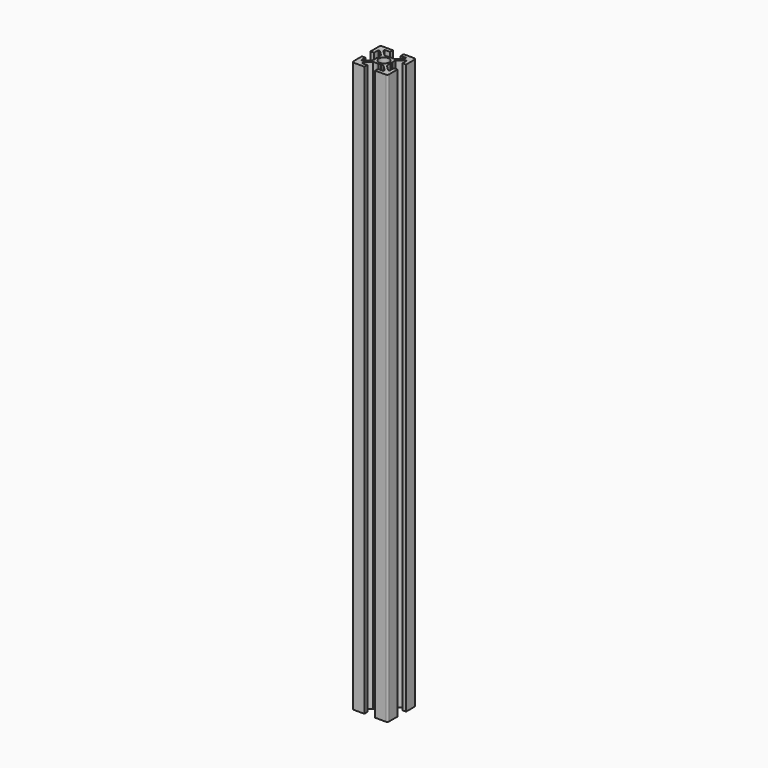
from build123d import *

# Parameters (mm, degrees)
SKETCH001_R = 2.9
PAD_DEPTH   = 160


with BuildPart() as part:
    # Sketch001 → Pad (new body, symmetric)
    with BuildSketch(Plane.XY):
        with BuildLine():
            Line((-8, -3), (-10, -3))
            Line((-10, -3), (-10, -9))
            ThreePointArc((-10, -9), (-9.707107, -9.707107), (-9, -10))
            Line((-9, -10), (-3, -10))
            Line((-3, -10), (-3, -8))
            Line((-3, -8), (-6, -8))
            Line((-6, -8), (-6, -7.06066))
            Line((-6, -7.06066), (-2.93934, -4))
            Line((-2.93934, -4), (-0.65359, -4))
            ThreePointArc((-0.65359, -4), (-0.52418, -3.982963), (-0.40359, -3.933013))
            Line((-0.40359, -3.933013), (0, -3.7))
            Line((0, -3.7), (0.40359, -3.933013))
            ThreePointArc((0.40359, -3.933013), (0.65359, -4), (0.90359, -3.933013))
            Line((0.90359, -3.933013), (1.218886, -3.750977))
            Line((1.218886, -3.750977), (2.5, -4))
            Line((2.5, -4), (2.93934, -4))
            Line((2.93934, -4), (6, -7.06066))
            Line((6, -7.06066), (6, -8))
            Line((6, -8), (3, -8))
            Line((3, -8), (3, -10))
            Line((3, -10), (9, -10))
            ThreePointArc((9, -10), (9.707107, -9.707107), (10, -9))
            Line((10, -9), (10, -3))
            Line((10, -3), (8, -3))
            Line((8, -3), (8, -6))
            Line((8, -6), (7.06066, -6))
            Line((7.06066, -6), (4, -2.93934))
            Line((4, -2.93934), (4, -0.65359))
            ThreePointArc((4, -0.65359), (3.982963, -0.52418), (3.933013, -0.40359))
            Line((3.933013, -0.40359), (3.7, 0))
            Line((3.7, 0), (3.933013, 0.40359))
            ThreePointArc((3.933013, 0.40359), (4, 0.65359), (3.933013, 0.90359))
            Line((3.933013, 0.90359), (3.750977, 1.218886))
            Line((3.750977, 1.218886), (4, 2.5))
            Line((4, 2.5), (4, 2.93934))
            Line((4, 2.93934), (7.06066, 6))
            Line((7.06066, 6), (8, 6))
            Line((8, 6), (8, 3))
            Line((8, 3), (10, 3))
            Line((10, 3), (10, 9))
            ThreePointArc((10, 9), (9.707107, 9.707107), (9, 10))
            Line((9, 10), (3, 10))
            Line((3, 10), (3, 8))
            Line((3, 8), (6, 8))
            Line((6, 8), (6, 7.06066))
            Line((6, 7.06066), (2.93934, 4))
            Line((2.93934, 4), (0.65359, 4))
            ThreePointArc((0.65359, 4), (0.52418, 3.982963), (0.40359, 3.933013))
            Line((0.40359, 3.933013), (0, 3.7))
            Line((0, 3.7), (-0.40359, 3.933013))
            ThreePointArc((-0.40359, 3.933013), (-0.65359, 4), (-0.90359, 3.933013))
            Line((-0.90359, 3.933013), (-1.218886, 3.750977))
            Line((-1.218886, 3.750977), (-2.5, 4))
            Line((-2.5, 4), (-2.93934, 4))
            Line((-2.93934, 4), (-6, 7.06066))
            Line((-6, 7.06066), (-6, 8))
            Line((-6, 8), (-3, 8))
            Line((-3, 8), (-3, 10))
            Line((-3, 10), (-9, 10))
            ThreePointArc((-9, 10), (-9.707107, 9.707107), (-10, 9))
            Line((-10, 9), (-10, 3))
            Line((-10, 3), (-8, 3))
            Line((-8, 3), (-8, 6))
            Line((-8, 6), (-7.06066, 6))
            Line((-7.06066, 6), (-4, 2.93934))
            Line((-4, 2.93934), (-4, 0.65359))
            ThreePointArc((-4, 0.65359), (-3.982963, 0.52418), (-3.933013, 0.40359))
            Line((-3.933013, 0.40359), (-3.7, 0))
            Line((-3.7, 0), (-3.933013, -0.40359))
            ThreePointArc((-3.933013, -0.40359), (-4, -0.65359), (-3.933013, -0.90359))
            Line((-3.933013, -0.90359), (-3.750977, -1.218886))
            Line((-3.750977, -1.218886), (-4, -2.5))
            Line((-4, -2.5), (-4, -2.93934))
            Line((-4, -2.93934), (-7.06066, -6))
            Line((-7.06066, -6), (-8, -6))
            Line((-8, -6), (-8, -3))
        make_face()
        Circle(SKETCH001_R, mode=Mode.SUBTRACT)
    extrude(amount=PAD_DEPTH, both=True)


solid = part.part
